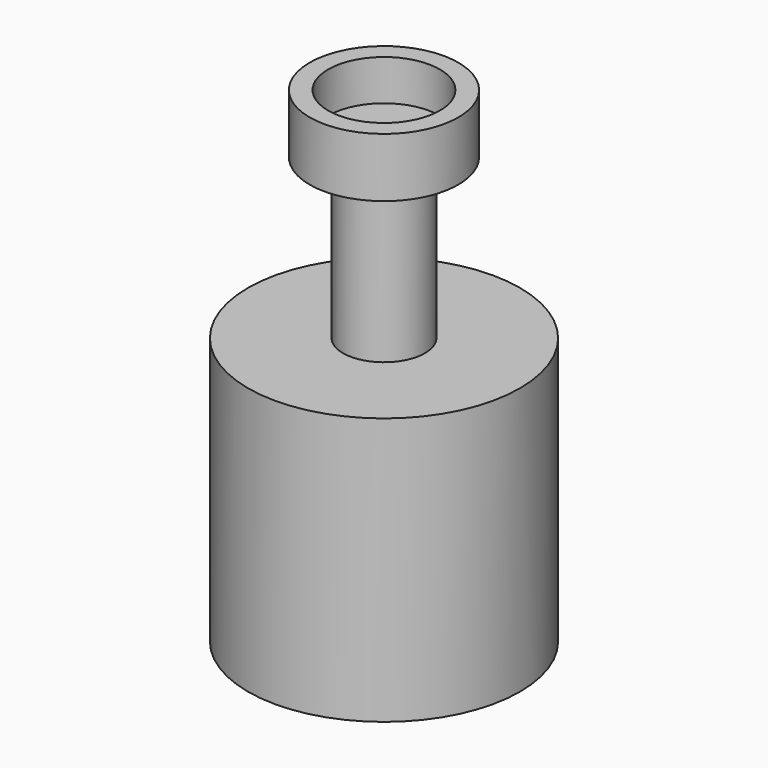
from build123d import *

# Parameters (mm, degrees)
F2_T = -2.54


with BuildPart() as f1:
    # F0 (on Front) → F1 (revolve)
    with BuildSketch(Plane.XZ):
        Polygon((0, 0), (0, 66.7458474636), (-10.2124884725, 66.7458474636), (-10.2124884725, 58.6048029363), (-5.633150693, 58.6048029363), (-5.633150693, 36.7257446051), (-18.6927430332, 36.7257446051), (-18.6927430332, 0), align=None)
    revolve(axis=Axis((0, 0, 33.3729237318), (0, 0, -1)))

    # F2
    f2_openings = [f1.faces().sort_by_distance(p)[0] for p in [
        (0, 0, 66.745847),
    ]]
    offset(amount=F2_T, openings=f2_openings, kind=Kind.INTERSECTION)


solid = f1.part
